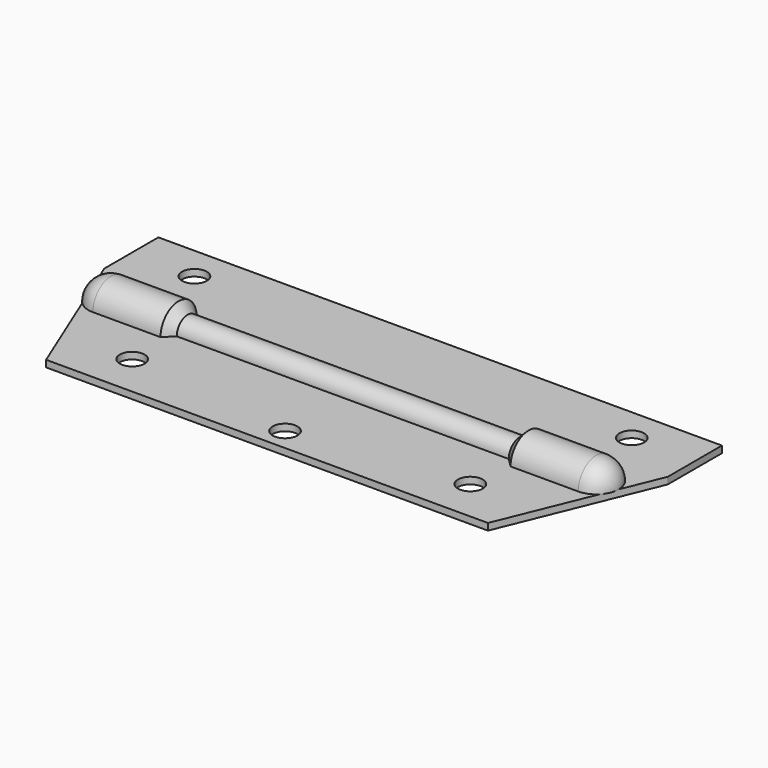
from build123d import *

# Parameters (mm, degrees)
SKETCH_R         = 2.75
PAD_DEPTH        = 1.5
REVOLUTION_ANGLE = 180


with BuildPart() as part:
    # Sketch → Pad (new body)
    with BuildSketch(Plane.XY):
        Polygon((-62.5, 24), (62.5, 24), (62.5, 9), (49, -24), (-49, -24), (-62.5, 9), align=None)
        with Locations((0, -19)):
            Circle(SKETCH_R, mode=Mode.SUBTRACT)
        with Locations((37.5, -14.5)):
            Circle(SKETCH_R, mode=Mode.SUBTRACT)
        with Locations((-37.5, -14.5)):
            Circle(SKETCH_R, mode=Mode.SUBTRACT)
        with Locations((-48.5, 16.5)):
            Circle(SKETCH_R, mode=Mode.SUBTRACT)
        with Locations((48.5, 16.5)):
            Circle(SKETCH_R, mode=Mode.SUBTRACT)
    extrude(amount=-PAD_DEPTH)

    # Sketch001 → Revolution (revolve)
    with BuildSketch(Plane.XY):
        with BuildLine():
            Line((-53.818182, 5), (-38.818182, 5))
            Line((-38.818182, 5), (-36.818182, 3))
            Line((-36.818182, 3), (36.818182, 3))
            Line((36.818182, 3), (38.818182, 5))
            Line((38.818182, 5), (53.818182, 5))
            ThreePointArc((58.818182, 0), (57.353716, 3.535534), (53.818182, 5))
            Line((57.818182, 0), (58.818182, 0))
            ThreePointArc((57.818182, 0), (56.646609, 2.828427), (53.818182, 4))
            Line((53.818182, 4), (39.232395, 4))
            Line((39.232395, 4), (37.232395, 2))
            Line((37.232395, 2), (-37.232395, 2))
            Line((-37.232395, 2), (-39.232395, 4))
            Line((-39.232395, 4), (-53.818182, 4))
            ThreePointArc((-53.818182, 4), (-56.646609, 2.828427), (-57.818182, 0))
            Line((-58.818182, 0), (-57.818182, 0))
            ThreePointArc((-53.818182, 5), (-57.353716, 3.535534), (-58.818182, 0))
        make_face()
    revolve(axis=Axis((0, 0, 0), (1, 0, 0)), revolution_arc=REVOLUTION_ANGLE)


solid = part.part
